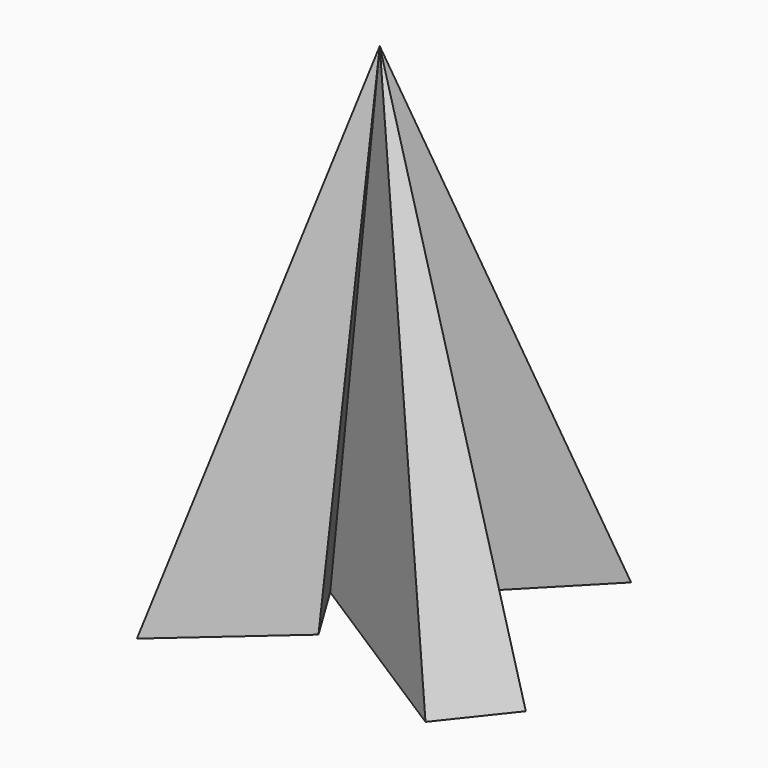
from build123d import *


with BuildPart() as f3:
    # F0 (on Top) → F3 section 0
    with BuildSketch(Plane.XY, mode=Mode.PRIVATE) as f3_s0:
        Polygon((-23.524592, 40.020492), (-34.713116, 37.438527), (-34.713116, -26.250001), (-13.882448, -7.889344), (-21.229509, 4.159836), (16.926231, -20.225411), (26.680328, -7.889344), (-9.467213, 12.766394), (12.622951, 35.430327), (0, 40.020492), (-17.5, 16.495902), align=None)
    loft([f3_s0.sketch, Vertex(-8.202733, 0, 100)])


solid = f3.part
